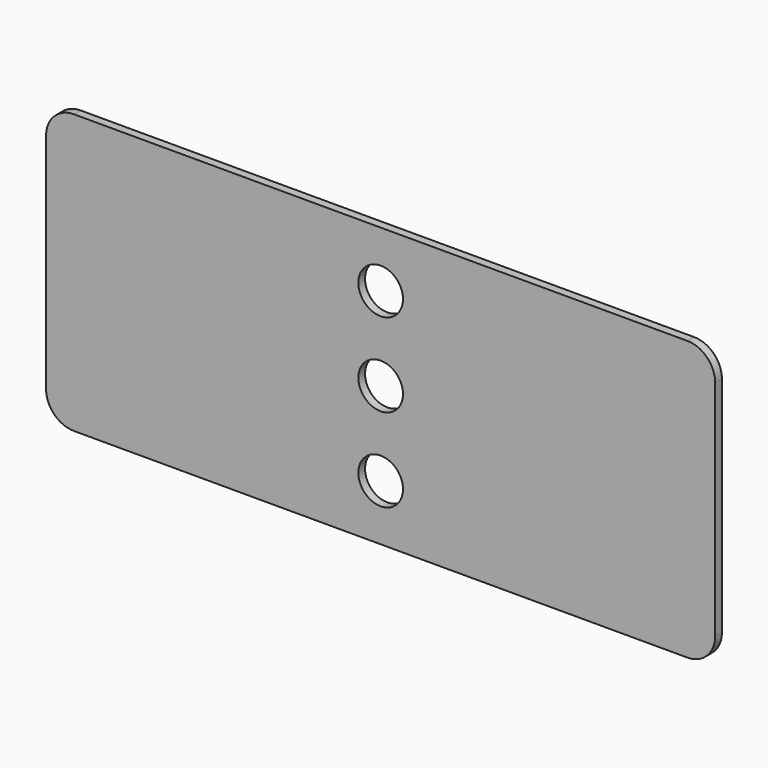
from build123d import *

# Parameters (mm, degrees)
F0_W     = 240
F0_H     = 100
F0_R     = 8
F1_DEPTH = 3
F2_R     = 10


with BuildPart() as f1:
    # F0 (on Front) → F1 (new body)
    with BuildSketch(Plane.XZ):
        Rectangle(F0_W, F0_H)
        with Locations((0, -30)):
            Circle(F0_R, mode=Mode.SUBTRACT)
        Circle(F0_R, mode=Mode.SUBTRACT)
        with Locations((0, 30)):
            Circle(F0_R, mode=Mode.SUBTRACT)
    extrude(amount=F1_DEPTH)

    # F2
    f2_edges = [f1.edges().sort_by_distance(p)[0] for p in [
        (-120, -1.5, 50),
        (-120, -1.5, -50),
        (120, -1.5, 50),
        (120, -1.5, -50),
    ]]
    fillet(f2_edges, radius=F2_R)


solid = f1.part
